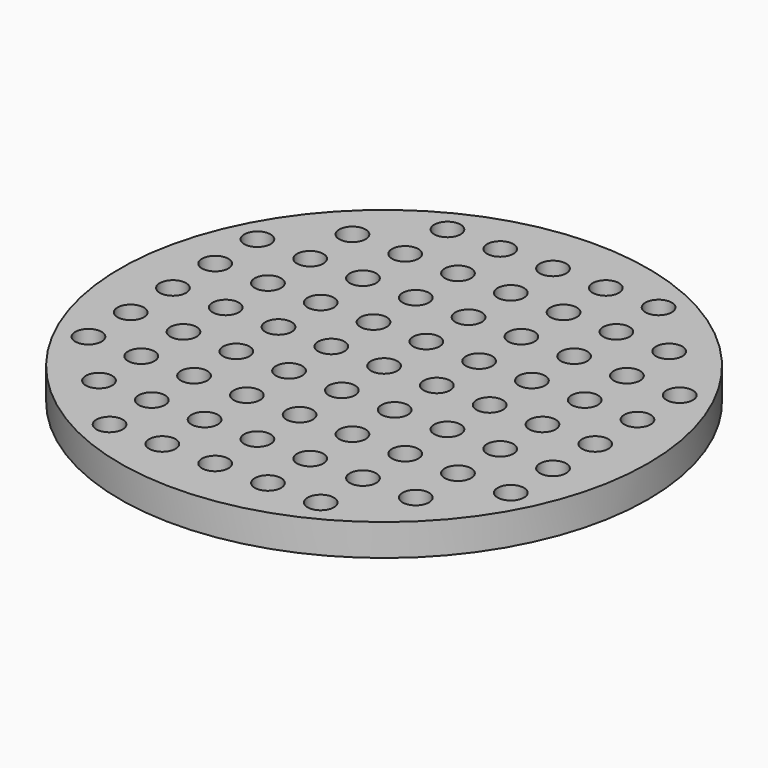
from build123d import *

# Parameters (mm, degrees)
F0_R     = 25
F0_R_2   = 1.25
F1_DEPTH = 3


with BuildPart() as f1:
    # F0 (on Top) → F1 (new body)
    with BuildSketch(Plane.XY):
        Circle(F0_R)
        with Locations((-15, -15)):
            Circle(F0_R_2, mode=Mode.SUBTRACT)
        with Locations((-10, -20)):
            Circle(F0_R_2, mode=Mode.SUBTRACT)
        with Locations((-5, -20)):
            Circle(F0_R_2, mode=Mode.SUBTRACT)
        with Locations((-10, -15)):
            Circle(F0_R_2, mode=Mode.SUBTRACT)
        with Locations((-5, -15)):
            Circle(F0_R_2, mode=Mode.SUBTRACT)
        with Locations((-20, -10)):
            Circle(F0_R_2, mode=Mode.SUBTRACT)
        with Locations((-15, -10)):
            Circle(F0_R_2, mode=Mode.SUBTRACT)
        with Locations((-20, -5)):
            Circle(F0_R_2, mode=Mode.SUBTRACT)
        with Locations((-15, -5)):
            Circle(F0_R_2, mode=Mode.SUBTRACT)
        with Locations((-10, -10)):
            Circle(F0_R_2, mode=Mode.SUBTRACT)
        with Locations((-5, -10)):
            Circle(F0_R_2, mode=Mode.SUBTRACT)
        with Locations((-10, -5)):
            Circle(F0_R_2, mode=Mode.SUBTRACT)
        with Locations((-5, -5)):
            Circle(F0_R_2, mode=Mode.SUBTRACT)
        with Locations((0, -20)):
            Circle(F0_R_2, mode=Mode.SUBTRACT)
        with Locations((5, -20)):
            Circle(F0_R_2, mode=Mode.SUBTRACT)
        with Locations((10, -20)):
            Circle(F0_R_2, mode=Mode.SUBTRACT)
        with Locations((0, -15)):
            Circle(F0_R_2, mode=Mode.SUBTRACT)
        with Locations((5, -15)):
            Circle(F0_R_2, mode=Mode.SUBTRACT)
        with Locations((10, -15)):
            Circle(F0_R_2, mode=Mode.SUBTRACT)
        with Locations((15, -15)):
            Circle(F0_R_2, mode=Mode.SUBTRACT)
        with Locations((0, -10)):
            Circle(F0_R_2, mode=Mode.SUBTRACT)
        with Locations((5, -10)):
            Circle(F0_R_2, mode=Mode.SUBTRACT)
        with Locations((10, -10)):
            Circle(F0_R_2, mode=Mode.SUBTRACT)
        with Locations((0, -5)):
            Circle(F0_R_2, mode=Mode.SUBTRACT)
        with Locations((5, -5)):
            Circle(F0_R_2, mode=Mode.SUBTRACT)
        with Locations((10, -5)):
            Circle(F0_R_2, mode=Mode.SUBTRACT)
        with Locations((15, -10)):
            Circle(F0_R_2, mode=Mode.SUBTRACT)
        with Locations((20, -10)):
            Circle(F0_R_2, mode=Mode.SUBTRACT)
        with Locations((15, -5)):
            Circle(F0_R_2, mode=Mode.SUBTRACT)
        with Locations((20, -5)):
            Circle(F0_R_2, mode=Mode.SUBTRACT)
        with Locations((-20, 0)):
            Circle(F0_R_2, mode=Mode.SUBTRACT)
        with Locations((-20, 5)):
            Circle(F0_R_2, mode=Mode.SUBTRACT)
        with Locations((-15, 0)):
            Circle(F0_R_2, mode=Mode.SUBTRACT)
        with Locations((-15, 5)):
            Circle(F0_R_2, mode=Mode.SUBTRACT)
        with Locations((-20, 10)):
            Circle(F0_R_2, mode=Mode.SUBTRACT)
        with Locations((-15, 10)):
            Circle(F0_R_2, mode=Mode.SUBTRACT)
        with Locations((-10, 0)):
            Circle(F0_R_2, mode=Mode.SUBTRACT)
        with Locations((-10, 5)):
            Circle(F0_R_2, mode=Mode.SUBTRACT)
        with Locations((-5, 0)):
            Circle(F0_R_2, mode=Mode.SUBTRACT)
        with Locations((-5, 5)):
            Circle(F0_R_2, mode=Mode.SUBTRACT)
        with Locations((-10, 10)):
            Circle(F0_R_2, mode=Mode.SUBTRACT)
        with Locations((-5, 10)):
            Circle(F0_R_2, mode=Mode.SUBTRACT)
        with Locations((-15, 15)):
            Circle(F0_R_2, mode=Mode.SUBTRACT)
        with Locations((-10, 15)):
            Circle(F0_R_2, mode=Mode.SUBTRACT)
        with Locations((-5, 15)):
            Circle(F0_R_2, mode=Mode.SUBTRACT)
        with Locations((-10, 20)):
            Circle(F0_R_2, mode=Mode.SUBTRACT)
        with Locations((-5, 20)):
            Circle(F0_R_2, mode=Mode.SUBTRACT)
        Circle(F0_R_2, mode=Mode.SUBTRACT)
        with Locations((5, 0)):
            Circle(F0_R_2, mode=Mode.SUBTRACT)
        with Locations((0, 5)):
            Circle(F0_R_2, mode=Mode.SUBTRACT)
        with Locations((5, 5)):
            Circle(F0_R_2, mode=Mode.SUBTRACT)
        with Locations((10, 0)):
            Circle(F0_R_2, mode=Mode.SUBTRACT)
        with Locations((10, 5)):
            Circle(F0_R_2, mode=Mode.SUBTRACT)
        with Locations((0, 10)):
            Circle(F0_R_2, mode=Mode.SUBTRACT)
        with Locations((5, 10)):
            Circle(F0_R_2, mode=Mode.SUBTRACT)
        with Locations((10, 10)):
            Circle(F0_R_2, mode=Mode.SUBTRACT)
        with Locations((15, 0)):
            Circle(F0_R_2, mode=Mode.SUBTRACT)
        with Locations((15, 5)):
            Circle(F0_R_2, mode=Mode.SUBTRACT)
        with Locations((20, 0)):
            Circle(F0_R_2, mode=Mode.SUBTRACT)
        with Locations((20, 5)):
            Circle(F0_R_2, mode=Mode.SUBTRACT)
        with Locations((15, 10)):
            Circle(F0_R_2, mode=Mode.SUBTRACT)
        with Locations((20, 10)):
            Circle(F0_R_2, mode=Mode.SUBTRACT)
        with Locations((0, 15)):
            Circle(F0_R_2, mode=Mode.SUBTRACT)
        with Locations((5, 15)):
            Circle(F0_R_2, mode=Mode.SUBTRACT)
        with Locations((10, 15)):
            Circle(F0_R_2, mode=Mode.SUBTRACT)
        with Locations((0, 20)):
            Circle(F0_R_2, mode=Mode.SUBTRACT)
        with Locations((5, 20)):
            Circle(F0_R_2, mode=Mode.SUBTRACT)
        with Locations((10, 20)):
            Circle(F0_R_2, mode=Mode.SUBTRACT)
        with Locations((15, 15)):
            Circle(F0_R_2, mode=Mode.SUBTRACT)
    extrude(amount=F1_DEPTH)


solid = f1.part
